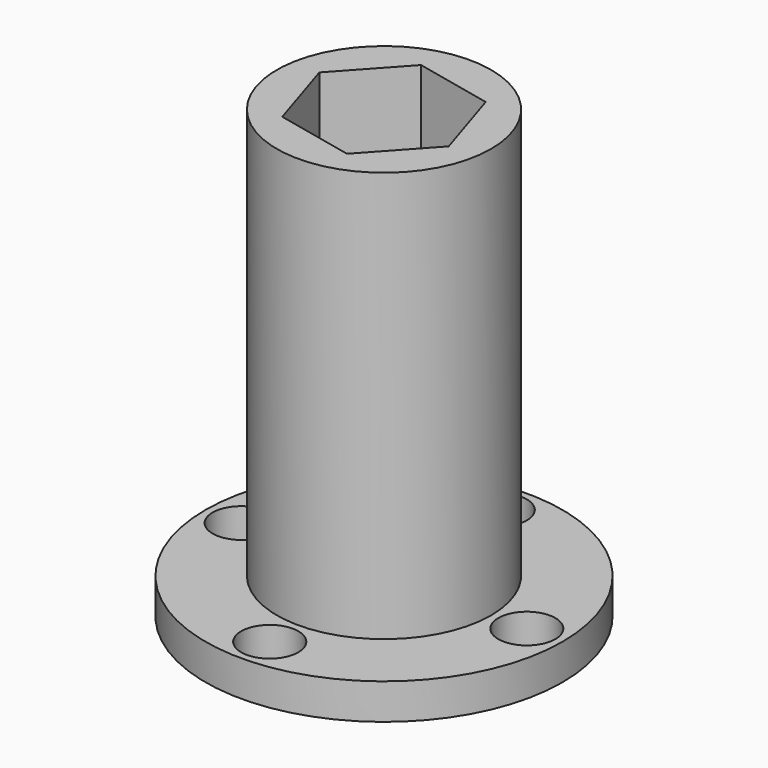
from build123d import *

# Parameters (mm, degrees)
F0_R     = 10
F0_R_2   = 6
F1_DEPTH = 2
F0_R_3   = 3.5
F2_DEPTH = 25
F4_DEPTH = 20
F5_D     = 3.2


with BuildPart() as f1:
    # F0 (on Top) → F1 (new body)
    with BuildSketch(Plane.XY):
        Circle(F0_R)
        Circle(F0_R_2, mode=Mode.SUBTRACT)
    extrude(amount=F1_DEPTH)

    # F0 (on Top) → F2 (join)
    with BuildSketch(Plane.XY):
        Circle(F0_R_2)
        Circle(F0_R_3, mode=Mode.SUBTRACT)
    extrude(amount=F2_DEPTH)

    # F3 (on face) → F4 (cut)
    with BuildSketch(Plane.XY.offset(25)):
        Polygon((1.361971, -4.292439), (4.398347, -0.966719), (3.036376, 3.325721), (-1.361971, 4.292439), (-4.398347, 0.966719), (-3.036376, -3.325721), align=None)
    extrude(amount=-F4_DEPTH, mode=Mode.SUBTRACT)

    # F5 (through all)
    with Locations(Plane(origin=(0, 0, 0), x_dir=(1, 0, 0), z_dir=(0, 0, -1))):
        with Locations((-8, 0), (0, 8), (8, 0), (0, -8)):
            Hole(F5_D / 2)


solid = f1.part
